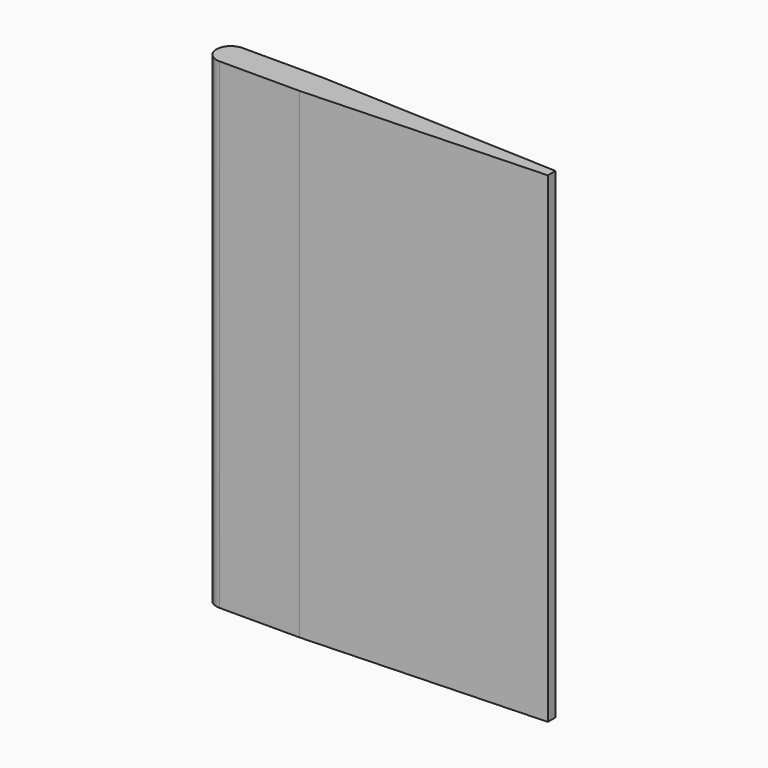
from build123d import *

# Parameters (mm, degrees)
PAD_DEPTH = 150


with BuildPart() as part:
    # Sketch → Pad (new body)
    with BuildSketch(Plane.XY):
        with BuildLine():
            Line((-18.661384, 4.5), (6.338616, 4.5))
            Line((6.338616, 4.5), (81.338616, 1.5))
            Line((81.338616, 1.5), (81.338616, -1.5))
            Line((6.338616, -4.5), (81.338616, -1.5))
            Line((-18.661384, -4.5), (6.338616, -4.5))
            ThreePointArc((-18.661384, 4.5), (-23.161384, 0), (-18.661384, -4.5))
        make_face()
    extrude(amount=PAD_DEPTH)


solid = part.part
